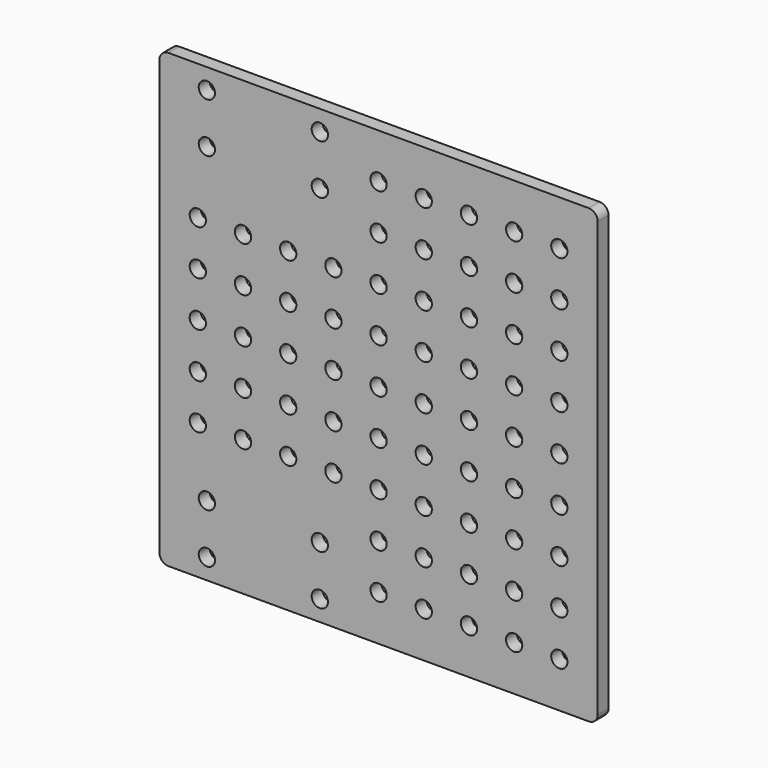
from build123d import *

# Parameters (mm, degrees)
CYLINDER038_R            = 1.8
CYLINDER038_DEPTH        = 100
ARRAY001_X_COUNT         = 2
ARRAY001_X_PITCH         = 25
ARRAY001_Y_COUNT         = 2
ARRAY001_Y_PITCH         = 11
ARRAY001_PLACEMENT_ANGLE = 90
ARRAY002_Z_COUNT         = 2
ARRAY002_Z_PITCH         = 80
SKETCH001_W              = 43.249981
SKETCH001_H              = 25.364647
SKETCH001_W_2            = 44.875929
SKETCH001_H_2            = 23.738708
EXTRUDE001_DEPTH         = 50
CYLINDER011002_R         = 1.8
CYLINDER011002_DEPTH     = 100
ARRAY004_X_COUNT         = 9
ARRAY004_X_PITCH         = 10
ARRAY004_Z_COUNT         = 9
ARRAY004_Z_PITCH         = 10
BOX001_W                 = 97
BOX001_H                 = 3
BOX001_DEPTH             = 100
FILLET001_R              = 2


with BuildPart() as bolt_hole_array_pair:
    # Cylinder038 → Cylinder038 (new body)
    with BuildSketch(Plane.XY.offset(-50)):
        Circle(CYLINDER038_R)
    extrude(amount=CYLINDER038_DEPTH)

    # Array001 X: bolt hole array pair ×2


with BuildPart() as bolt_hole_array_pair_1:
    add(bolt_hole_array_pair.part)
    with Locations(*[(i * ARRAY001_X_PITCH, 0, 0) for i in range(1, ARRAY001_X_COUNT)]):
        add(bolt_hole_array_pair.part)

    # Array001 Y: bolt hole array pair ×2


with BuildPart() as bolt_hole_array_pair_2:
    add(bolt_hole_array_pair_1.part)
    with Locations(*[(0, i * ARRAY001_Y_PITCH, 0) for i in range(1, ARRAY001_Y_COUNT)]):
        add(bolt_hole_array_pair_1.part)


with BuildPart() as bolt_hole_array_pair_3:
    # Array001 placement: moved
    add(bolt_hole_array_pair_2.part.moved(Location((-12.5, 0, 4.5))).rotate(Axis((-12.5, 0, 4.5), (1, 0, 0)), ARRAY001_PLACEMENT_ANGLE))

    # Array002 Z: bolt hole array pair ×2


with BuildPart() as bolt_hole_array_pair_4:
    add(bolt_hole_array_pair_3.part)
    with Locations(*[(0, 0, i * ARRAY002_Z_PITCH) for i in range(1, ARRAY002_Z_COUNT)]):
        add(bolt_hole_array_pair_3.part)


with BuildPart() as pulley_side_extrude:
    # Sketch001 (on Array) → Extrude001 (new body, symmetric)
    with BuildSketch(Plane(origin=(-14.5, 0, 10), x_dir=(1, 0, 0), z_dir=(0, -1, 0))):
        with Locations((13.668077, 77.054226)):
            Rectangle(SKETCH001_W, SKETCH001_H)
        with Locations((13.180285, 1.773257)):
            Rectangle(SKETCH001_W_2, SKETCH001_H_2)
    extrude(amount=EXTRUDE001_DEPTH, both=True)


with BuildPart() as pulley_side_hole_fusion:
    # Cylinder011002 → Cylinder011002 (new body)
    with BuildSketch(Plane.XZ.offset(-50)):
        Circle(CYLINDER011002_R)
    extrude(amount=CYLINDER011002_DEPTH)

    # Array004 X: pulley side hole fusion ×9


with BuildPart() as pulley_side_hole_fusion_1:
    add(pulley_side_hole_fusion.part)
    with Locations(*[(i * ARRAY004_X_PITCH, 0, 0) for i in range(1, ARRAY004_X_COUNT)]):
        add(pulley_side_hole_fusion.part)

    # Array004 Z: pulley side hole fusion ×9


with BuildPart() as pulley_side_hole_fusion_2:
    add(pulley_side_hole_fusion_1.part)
    with Locations(*[(0, 0, i * ARRAY004_Z_PITCH) for i in range(1, ARRAY004_Z_COUNT)]):
        add(pulley_side_hole_fusion_1.part)


with BuildPart() as pulley_side_hole_fusion_3:
    # Array004 placement: moved
    add(pulley_side_hole_fusion_2.part.moved(Location((-14.5, 0, 10))))

    # Cut023015009003: cut pulley side extrude
    add(pulley_side_extrude.part, mode=Mode.SUBTRACT)

    # Fusion001: union bolt hole array pair
    add(bolt_hole_array_pair_4.part)


with BuildPart() as pulley_side_plate_cut:
    # Box001 → Box001 (new body)
    with BuildSketch(Plane(origin=(-23, 33, 0), x_dir=(1, 0, 0), z_dir=(0, 0, 1))):
        with Locations((48.5, 1.5)):
            Rectangle(BOX001_W, BOX001_H)
    extrude(amount=BOX001_DEPTH)

    # Fillet001
    fillet001_edges = [pulley_side_plate_cut.edges().sort_by_distance(p)[0] for p in [
        (-23, 34.5, 100),
        (-23, 34.5, 0),
        (74, 34.5, 100),
        (74, 34.5, 0),
    ]]
    fillet(fillet001_edges, radius=FILLET001_R)

    # Cut023015009004: cut pulley side hole fusion
    add(pulley_side_hole_fusion_3.part, mode=Mode.SUBTRACT)


solid = pulley_side_plate_cut.part
